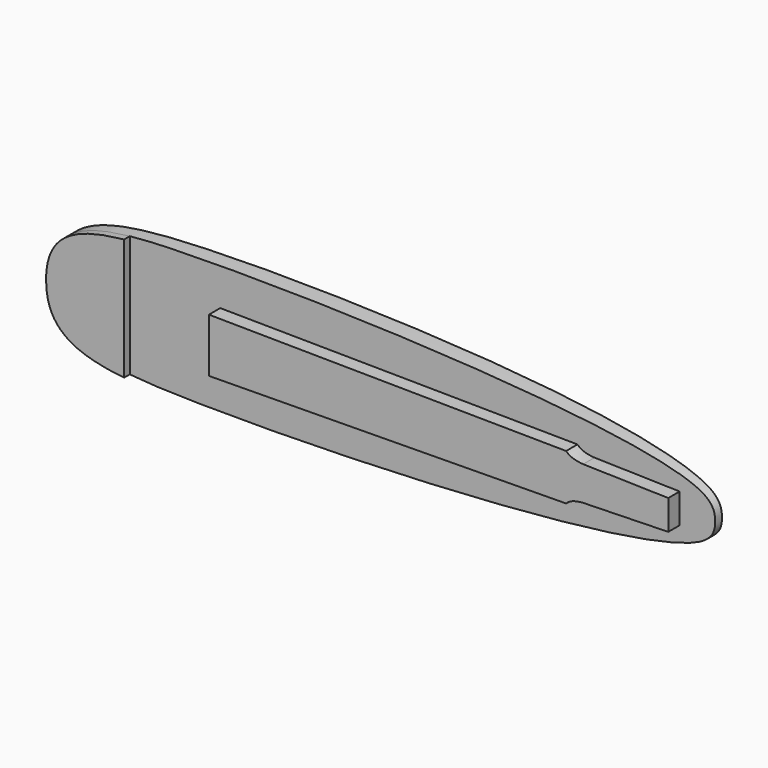
from build123d import *

# Parameters (mm, degrees)
F1_DEPTH = 30
F3_DEPTH = 500
F4_DEPTH = 10
F6_DEPTH = 10
F8_DEPTH = 20


with BuildPart() as f1:
    # F0 (on Front) → F1 (new body)
    with BuildSketch(Plane.XZ):
        with BuildLine():
            add(Edge.make_bspline(
                [(-410, 0), (-410, 78.9728224141), (-208.2785468634, 103.8873472484), (519.8811059336, 72.0494995737), (525, 8.5435118526), (525, 0)],
                knots=[0, 0, 0, 0, 0.3099569307, 0.8752208997, 1, 1, 1, 1], degree=3))
            add(Edge.make_bspline(
                [(-410, 0), (-410, -78.9728224141), (-208.2785468634, -103.8873472484), (519.8811059336, -72.0494995737), (525, -8.5435118526), (525, 0)],
                knots=[0, 0, 0, 0, 0.3099569307, 0.8752208997, 1, 1, 1, 1], degree=3))
        make_face()
    extrude(amount=-F1_DEPTH)

    # F2 (on Top) → F3 (cut, symmetric)
    with BuildSketch(Plane.XY):
        with BuildLine():
            Line((-410, 37), (-410, 12))
            add(Edge.make_bspline(
                [(-410, 12), (-263.8749145203, 23.6716755717), (-9.5554071198, 25.9518235524), (359.4458289348, 24.5466398239), (525, 12)],
                knots=[0, 0, 0, 0, 0.4691585594, 1, 1, 1, 1], degree=3))
            Line((525, 12), (545, 12))
            Line((545, 12), (545, 37))
            Line((545, 37), (-410, 37))
        make_face()
    extrude(amount=F3_DEPTH, both=True, mode=Mode.SUBTRACT)

    # F0 (on Front) → F4 (join)
    with BuildSketch(Plane.XZ):
        with BuildLine():
            add(Edge.make_bspline(
                [(-410, 0), (-410, 78.9728224141), (-208.2785468634, 103.8873472484), (519.8811059336, 72.0494995737), (525, 8.5435118526), (525, 0)],
                knots=[0, 0, 0, 0, 0.3099569307, 0.8752208997, 1, 1, 1, 1], degree=3))
            add(Edge.make_bspline(
                [(-410, 0), (-410, -78.9728224141), (-208.2785468634, -103.8873472484), (519.8811059336, -72.0494995737), (525, -8.5435118526), (525, 0)],
                knots=[0, 0, 0, 0, 0.3099569307, 0.8752208997, 1, 1, 1, 1], degree=3))
        make_face()
    extrude(amount=F4_DEPTH)

    # F5 (on face) → F6 (cut)
    with BuildSketch(Plane.XZ.offset(10)):
        Polygon((-300, 140.8456638455), (-300, 85.7651611453), (-300, -85.7651611453), (-300, -122.7003704771), (-300, -145.7490250468), (565.5409514904, -145.7490250468), (565.5409514904, 140.8456638455), align=None)
    extrude(amount=-F6_DEPTH, mode=Mode.SUBTRACT)

    # F7 (on face) → F8 (join)
    with BuildSketch(Plane.XZ):
        with BuildLine():
            Line((-172.5, 38), (-172.5, 0))
            Line((-172.5, 0), (-172.5, -38))
            Line((-172.5, -38), (331, -32.5567567568))
            add(Edge.make_bspline(
                [(331, -32.5567567568), (334.3753516674, -29.0429461747), (340.1614382228, -25.0244268924), (355.0375058612, -24)],
                knots=[0, 0, 0, 0, 25.5150891478, 25.5150891478, 25.5150891478, 25.5150891478], degree=3))
            Line((355.0375058612, -24), (475, -21))
            Line((475, -21), (475, 0))
            Line((475, 0), (475, 21))
            Line((475, 21), (355.0375058612, 24))
            add(Edge.make_bspline(
                [(331, 32.5567567568), (334.3753516674, 29.0429461747), (340.1614382228, 25.0244268924), (355.0375058612, 24)],
                knots=[0, 0, 0, 0, 25.5150891478, 25.5150891478, 25.5150891478, 25.5150891478], degree=3))
            Line((331, 32.5567567568), (-172.5, 38))
        make_face()
    extrude(amount=F8_DEPTH)


solid = f1.part
